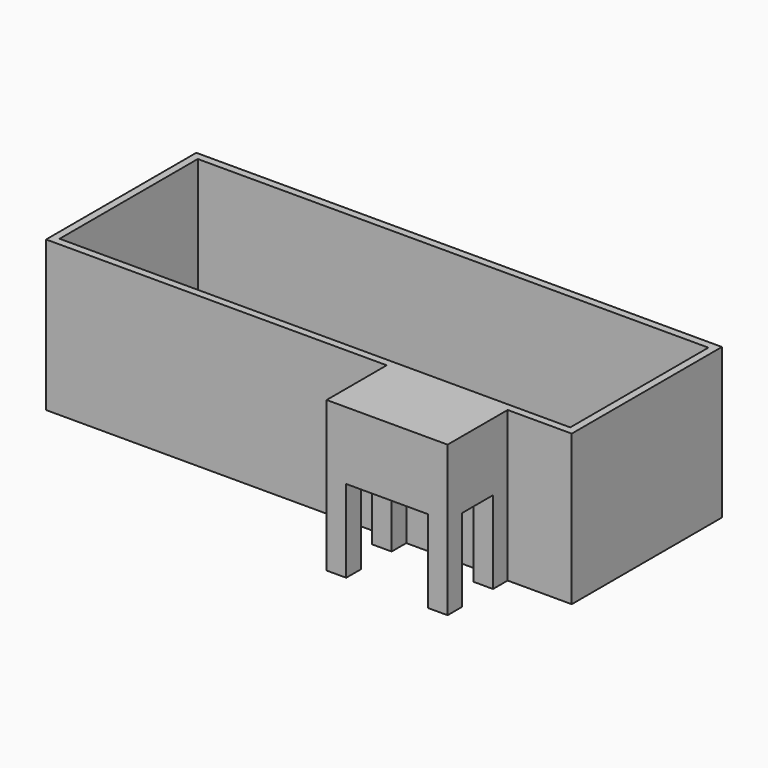
from build123d import *

# Parameters (mm, degrees)
F0_W     = 177.8
F0_H     = 63.5
F1_DEPTH = 50.8
F2_W     = 40.907368
F2_H     = 50.8
F3_DEPTH = 25.4
F4_W     = 27.672634
F4_H     = 27.94
F5_DEPTH = 25.4
F6_W     = 13.016606
F6_H     = 27.94
F7_DEPTH = 45.466
F8_W     = 172.72
F8_H     = 58.42
F9_DEPTH = 74.93


with BuildPart() as f1:
    # F0 (on Top) → F1 (new body)
    with BuildSketch(Plane.XY):
        Rectangle(F0_W, F0_H)
    extrude(amount=F1_DEPTH)

    # F2 (on face) → F3 (join)
    with BuildSketch(Plane.XZ.offset(31.75)):
        with Locations((46.772763, 25.4)):
            Rectangle(F2_W, F2_H)
    extrude(amount=F3_DEPTH)

    # F4 (on face) → F5 (cut)
    with BuildSketch(Plane.XZ.offset(57.15)):
        with Locations((46.772763, 13.97)):
            Rectangle(F4_W, F4_H)
    extrude(amount=-F5_DEPTH, mode=Mode.SUBTRACT)

    # F6 (on face) → F7 (cut)
    with BuildSketch(Plane(origin=(26.319079, 0, 0), x_dir=(0, -1, 0), z_dir=(-1, 0, 0))):
        with Locations((44.45, 13.97)):
            Rectangle(F6_W, F6_H)
    extrude(amount=-F7_DEPTH, mode=Mode.SUBTRACT)

    # F8 (on face) → F9 (cut)
    with BuildSketch(Plane(origin=(0, 0, 0), x_dir=(1, 0, 0), z_dir=(0, 0, -1))):
        Rectangle(F8_W, F8_H)
    extrude(amount=-F9_DEPTH, mode=Mode.SUBTRACT)


solid = f1.part
